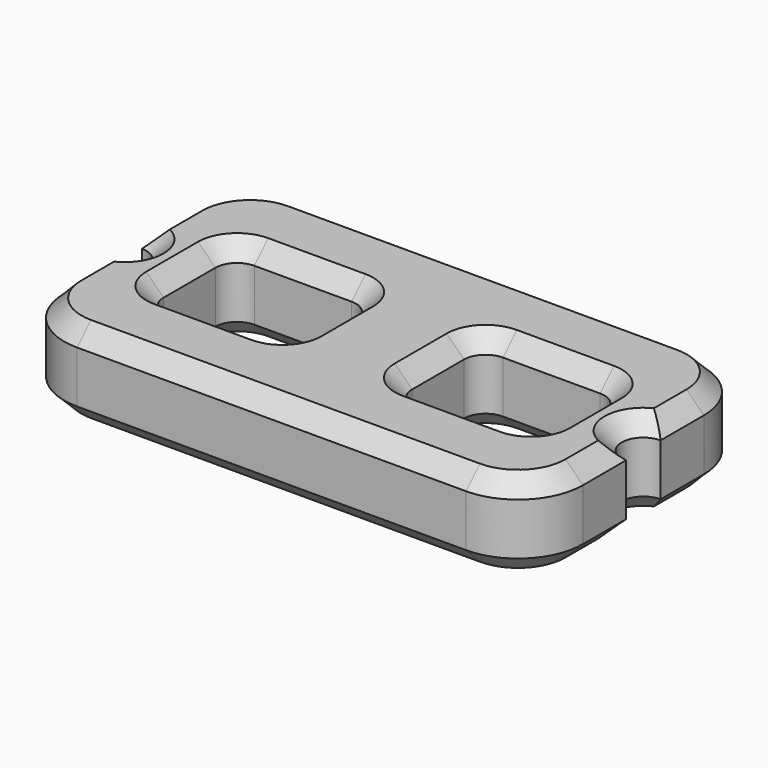
from build123d import *

# Parameters (mm, degrees)
F1_DEPTH = 4
F2_SIZE  = 0.8


with BuildPart() as f1:
    # F0 (on Top) → F1 (new body)
    with BuildSketch(Plane.XY):
        with BuildLine():
            Line((9, 6.5), (-9, 6.5))
            ThreePointArc((-9, 6.5), (-11.12132, 5.62132), (-12, 3.5))
            Line((-12, 3.5), (-12, 1))
            ThreePointArc((-12, 1), (-11, 0), (-12, -1))
            Line((-12, -1), (-12, -3.5))
            ThreePointArc((-12, -3.5), (-11.12132, -5.62132), (-9, -6.5))
            Line((-9, -6.5), (9, -6.5))
            ThreePointArc((9, -6.5), (11.12132, -5.62132), (12, -3.5))
            Line((12, -3.5), (12, -1))
            ThreePointArc((12, -1), (11, 0), (12, 1))
            Line((12, 1), (12, 3.5))
            ThreePointArc((12, 3.5), (11.12132, 5.62132), (9, 6.5))
        make_face()
        with BuildLine():
            ThreePointArc((-9, 1.5), (-8.707107, 2.207107), (-8, 2.5))
            Line((-8, 2.5), (-3.5, 2.5))
            ThreePointArc((-3.5, 2.5), (-2.792893, 2.207107), (-2.5, 1.5))
            Line((-2.5, 1.5), (-2.5, -1.5))
            ThreePointArc((-2.5, -1.5), (-2.792893, -2.207107), (-3.5, -2.5))
            Line((-3.5, -2.5), (-8, -2.5))
            ThreePointArc((-8, -2.5), (-8.707107, -2.207107), (-9, -1.5))
            Line((-9, -1.5), (-9, 1.5))
        make_face(mode=Mode.SUBTRACT)
        with BuildLine():
            Line((8, -2.5), (3.5, -2.5))
            ThreePointArc((3.5, -2.5), (2.792893, -2.207107), (2.5, -1.5))
            Line((2.5, -1.5), (2.5, 1.5))
            ThreePointArc((2.5, 1.5), (2.792893, 2.207107), (3.5, 2.5))
            Line((3.5, 2.5), (8, 2.5))
            ThreePointArc((8, 2.5), (8.707107, 2.207107), (9, 1.5))
            Line((9, 1.5), (9, -1.5))
            ThreePointArc((9, -1.5), (8.707107, -2.207107), (8, -2.5))
        make_face(mode=Mode.SUBTRACT)
    extrude(amount=F1_DEPTH)

    # F2
    f2_edges = [f1.edges().sort_by_distance(p)[0] for p in [
        (0, 6.5, 4),
        (-11.12132, 5.62132, 4),
        (-12, 2.25, 4),
        (-11, 0, 4),
        (-12, -2.25, 4),
        (-11.12132, -5.62132, 4),
        (0, -6.5, 4),
        (11.12132, -5.62132, 4),
        (12, -2.25, 4),
        (11, 0, 4),
        (12, 2.25, 4),
        (11.12132, 5.62132, 4),
        (-8.707107, -2.207107, 4),
        (-9, 0, 4),
        (-8.707107, 2.207107, 4),
        (-5.75, 2.5, 4),
        (-2.792893, 2.207107, 4),
        (-2.5, 0, 4),
        (-2.792893, -2.207107, 4),
        (-5.75, -2.5, 4),
        (5.75, -2.5, 4),
        (2.792893, -2.207107, 4),
        (2.5, 0, 4),
        (2.792893, 2.207107, 4),
        (5.75, 2.5, 4),
        (8.707107, 2.207107, 4),
        (9, 0, 4),
        (8.707107, -2.207107, 4),
        (0, 6.5, 0),
        (-11.12132, 5.62132, 0),
        (-12, 2.25, 0),
        (-11, 0, 0),
        (-12, -2.25, 0),
        (-11.12132, -5.62132, 0),
        (0, -6.5, 0),
        (11.12132, -5.62132, 0),
        (12, -2.25, 0),
        (11, 0, 0),
        (12, 2.25, 0),
        (11.12132, 5.62132, 0),
        (-8.707107, -2.207107, 0),
        (-9, 0, 0),
        (-8.707107, 2.207107, 0),
        (-5.75, 2.5, 0),
        (-2.792893, 2.207107, 0),
        (-2.5, 0, 0),
        (-2.792893, -2.207107, 0),
        (-5.75, -2.5, 0),
        (5.75, -2.5, 0),
        (2.792893, -2.207107, 0),
        (2.5, 0, 0),
        (2.792893, 2.207107, 0),
        (5.75, 2.5, 0),
        (8.707107, 2.207107, 0),
        (9, 0, 0),
        (8.707107, -2.207107, 0),
    ]]
    chamfer(f2_edges, length=F2_SIZE)


solid = f1.part
